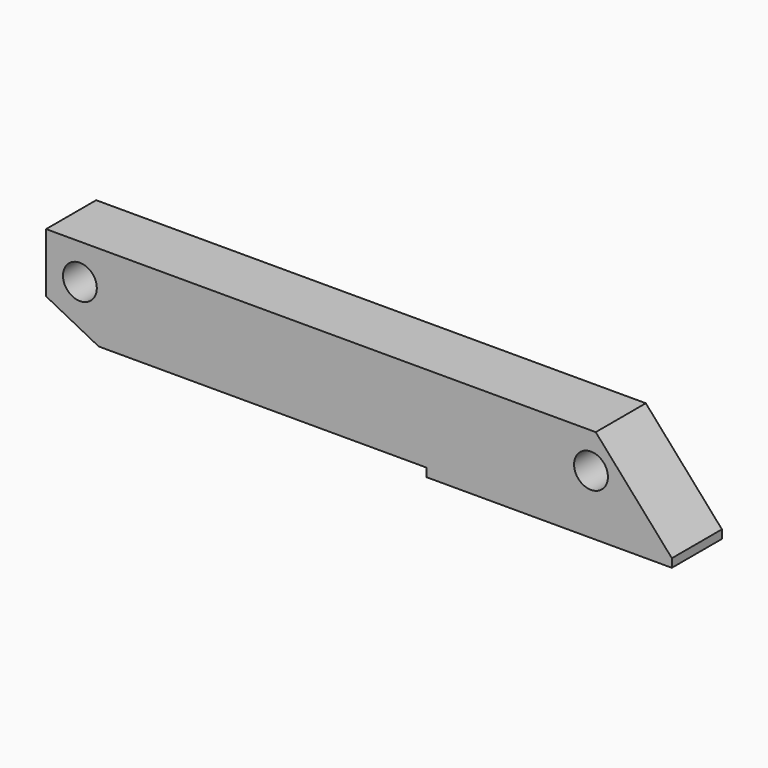
from build123d import *

# Parameters (mm, degrees)
F0_R     = 10
F1_DEPTH = 37
F2_W     = 145
F2_H     = 37
F3_DEPTH = 5


with BuildPart() as f1:
    # F0 (on Front) → F1 (new body)
    with BuildSketch(Plane.XZ):
        Polygon((-191.563664, 16), (-160.434899, 0), (178.436336, 0), (133.436336, 51), (-191.563664, 51), align=None)
        with Locations((-171.563664, 30)):
            Circle(F0_R, mode=Mode.SUBTRACT)
        with Locations((130.627802, 30)):
            Circle(F0_R, mode=Mode.SUBTRACT)
    extrude(amount=F1_DEPTH)

    # F2 (on Top) → F3 (join)
    with BuildSketch(Plane.XY):
        with Locations((105.936336, -18.5)):
            Rectangle(F2_W, F2_H)
    extrude(amount=-F3_DEPTH)


solid = f1.part
